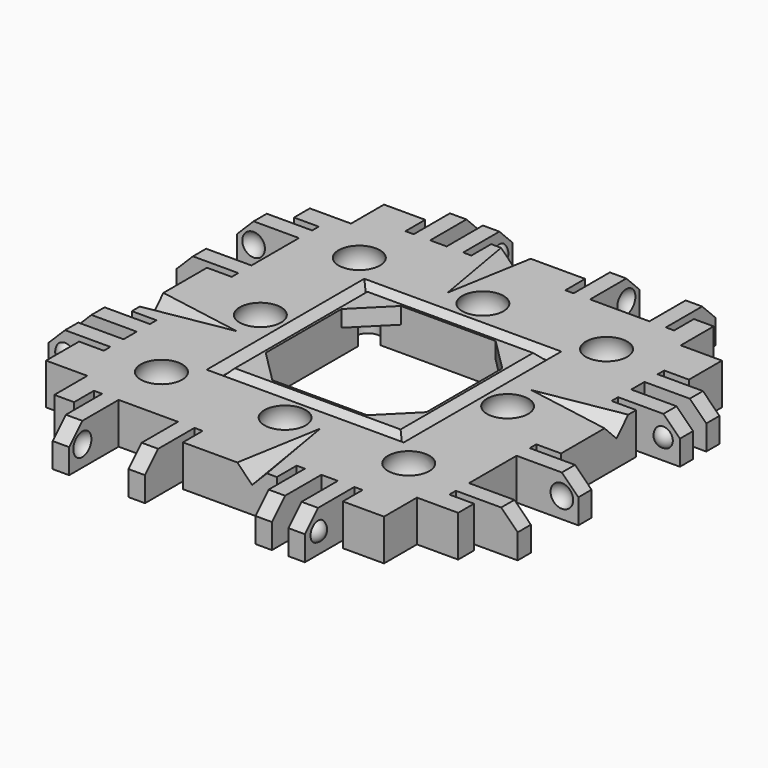
from build123d import *

# Parameters (mm, degrees)
CYLINDER037_R               = 1.5
CYLINDER037_DEPTH           = 4
CYLINDER036_R               = 1.5
CYLINDER036_DEPTH           = 4
CYLINDER035_R               = 1.5
CYLINDER035_DEPTH           = 4
CYLINDER034_R               = 1.5
CYLINDER034_DEPTH           = 4
SPHERE084_PLACEMENT_ANGLE   = 90
SPHERE086_PLACEMENT_ANGLE   = 90
SPHERE088_PLACEMENT_ANGLE   = -90
CYLINDER032_R               = 1.7
CYLINDER032_DEPTH           = 10
CYLINDER033_R               = 1.7
CYLINDER033_DEPTH           = 10
CYLINDER033_PLACEMENT_ANGLE = -90
CYLINDER031_R               = 1.7
CYLINDER031_DEPTH           = 10
CYLINDER031_PLACEMENT_ANGLE = 90
CYLINDER030_R               = 1.7
CYLINDER030_DEPTH           = 10
CYLINDER029_R               = 1.7
CYLINDER029_DEPTH           = 10
CYLINDER029_PLACEMENT_ANGLE = 90
BOX208_W                    = 10
BOX208_H                    = 15
BOX208_DEPTH                = 10
BOX208_ROLL_ANGLE           = 14.001942
BOX208_PITCH_ANGLE          = -44.136029
BOX208_PLACEMENT_ANGLE      = -99.851076
BOX207_W                    = 10
BOX207_H                    = 15
BOX207_DEPTH                = 10
BOX207_ROLL_ANGLE           = 14.001942
BOX207_PITCH_ANGLE          = -44.136029
BOX207_PLACEMENT_ANGLE      = 170.148924
BOX206_W                    = 10
BOX206_H                    = 15
BOX206_DEPTH                = 10
BOX206_ROLL_ANGLE           = 14.001942
BOX206_PITCH_ANGLE          = -44.136029
BOX206_PLACEMENT_ANGLE      = 80.148924
BOX086_W                    = 10
BOX086_H                    = 15
BOX086_DEPTH                = 10
BOX086_ROLL_ANGLE           = 14.001942
BOX086_PITCH_ANGLE          = -44.136029
BOX086_PLACEMENT_ANGLE      = -9.851076
BOX085_W                    = 19.5
BOX085_H                    = 19.5
BOX085_DEPTH                = 15
BOX076_W                    = 19.5
BOX076_H                    = 19.5
BOX076_DEPTH                = 15
CHAMFER008_SIZE             = 4
CYLINDER025_R               = 1.7
CYLINDER025_DEPTH           = 10
CYLINDER026_R               = 1.7
CYLINDER026_DEPTH           = 10
CYLINDER024_R               = 1.7
CYLINDER024_DEPTH           = 10
BOX169_W                    = 13
BOX169_H                    = 40
BOX169_DEPTH                = 10
BOX169_PITCH_ANGLE          = -45
BOX177_W                    = 12
BOX177_H                    = 44
BOX177_DEPTH                = 10
BOX176_W                    = 20
BOX176_H                    = 44
BOX176_DEPTH                = 10
BOX172_W                    = 4
BOX172_H                    = 1
BOX172_DEPTH                = 7
BOX174_W                    = 4
BOX174_H                    = 1
BOX174_DEPTH                = 7
BOX171_W                    = 4
BOX171_H                    = 2
BOX171_DEPTH                = 7
BOX173_W                    = 4
BOX173_H                    = 1
BOX173_DEPTH                = 7
BOX170_W                    = 4
BOX170_H                    = 1
BOX170_DEPTH                = 7
BOX175_W                    = 4
BOX175_H                    = 7.2
BOX175_DEPTH                = 7
BOX165_W                    = 10
BOX165_H                    = 2
BOX165_DEPTH                = 7
BOX166_W                    = 10
BOX166_H                    = 2
BOX166_DEPTH                = 7
BOX167_W                    = 10
BOX167_H                    = 2
BOX167_DEPTH                = 7
BOX168_W                    = 10
BOX168_H                    = 2
BOX168_DEPTH                = 7
BOX164_W                    = 5
BOX164_H                    = 40
BOX164_DEPTH                = 7
CUT069_PLACEMENT_ANGLE      = 90
BOX191_W                    = 13
BOX191_H                    = 40
BOX191_DEPTH                = 10
BOX191_PITCH_ANGLE          = -45
BOX187_W                    = 12
BOX187_H                    = 44
BOX187_DEPTH                = 10
BOX180_W                    = 20
BOX180_H                    = 44
BOX180_DEPTH                = 10
BOX182_W                    = 4
BOX182_H                    = 1
BOX182_DEPTH                = 7
BOX184_W                    = 4
BOX184_H                    = 1
BOX184_DEPTH                = 7
BOX186_W                    = 4
BOX186_H                    = 2
BOX186_DEPTH                = 7
BOX185_W                    = 4
BOX185_H                    = 1
BOX185_DEPTH                = 7
BOX189_W                    = 4
BOX189_H                    = 1
BOX189_DEPTH                = 7
BOX181_W                    = 4
BOX181_H                    = 7.2
BOX181_DEPTH                = 7
BOX190_W                    = 10
BOX190_H                    = 2
BOX190_DEPTH                = 7
BOX179_W                    = 10
BOX179_H                    = 2
BOX179_DEPTH                = 7
BOX183_W                    = 10
BOX183_H                    = 2
BOX183_DEPTH                = 7
BOX188_W                    = 10
BOX188_H                    = 2
BOX188_DEPTH                = 7
BOX178_W                    = 5
BOX178_H                    = 40
BOX178_DEPTH                = 7
CUT074_PLACEMENT_ANGLE      = 180
BOX193_W                    = 13
BOX193_H                    = 40
BOX193_DEPTH                = 10
BOX193_PITCH_ANGLE          = -45
BOX203_W                    = 12
BOX203_H                    = 44
BOX203_DEPTH                = 10
BOX194_W                    = 20
BOX194_H                    = 44
BOX194_DEPTH                = 10
BOX198_W                    = 4
BOX198_H                    = 1
BOX198_DEPTH                = 7
BOX204_W                    = 4
BOX204_H                    = 1
BOX204_DEPTH                = 7
BOX201_W                    = 4
BOX201_H                    = 2
BOX201_DEPTH                = 7
BOX200_W                    = 4
BOX200_H                    = 1
BOX200_DEPTH                = 7
BOX197_W                    = 4
BOX197_H                    = 1
BOX197_DEPTH                = 7
BOX199_W                    = 4
BOX199_H                    = 7.2
BOX199_DEPTH                = 7
BOX192_W                    = 10
BOX192_H                    = 2
BOX192_DEPTH                = 7
BOX195_W                    = 10
BOX195_H                    = 2
BOX195_DEPTH                = 7
BOX202_W                    = 10
BOX202_H                    = 2
BOX202_DEPTH                = 7
BOX205_W                    = 10
BOX205_H                    = 2
BOX205_DEPTH                = 7
BOX196_W                    = 5
BOX196_H                    = 40
BOX196_DEPTH                = 7
CUT079_PLACEMENT_ANGLE      = -90
BOX006_W                    = 13
BOX006_H                    = 40
BOX006_DEPTH                = 10
BOX006_PITCH_ANGLE          = -45
BOX149_W                    = 12
BOX149_H                    = 44
BOX149_DEPTH                = 10
BOX013_W                    = 20
BOX013_H                    = 44
BOX013_DEPTH                = 10
BOX009_W                    = 4
BOX009_H                    = 1
BOX009_DEPTH                = 7
BOX011_W                    = 4
BOX011_H                    = 1
BOX011_DEPTH                = 7
BOX008_W                    = 4
BOX008_H                    = 2
BOX008_DEPTH                = 7
BOX010_W                    = 4
BOX010_H                    = 1
BOX010_DEPTH                = 7
BOX007_W                    = 4
BOX007_H                    = 1
BOX007_DEPTH                = 7
BOX012_W                    = 4
BOX012_H                    = 7.2
BOX012_DEPTH                = 7
BOX002_W                    = 10
BOX002_H                    = 2
BOX002_DEPTH                = 7
BOX003_W                    = 10
BOX003_H                    = 2
BOX003_DEPTH                = 7
BOX004_W                    = 10
BOX004_H                    = 2
BOX004_DEPTH                = 7
BOX005_W                    = 10
BOX005_H                    = 2
BOX005_DEPTH                = 7
BOX001_W                    = 5
BOX001_H                    = 40
BOX001_DEPTH                = 7
BOX084_W                    = 20
BOX084_H                    = 20
BOX084_DEPTH                = 14
BOX083_W                    = 24
BOX083_H                    = 24
BOX083_DEPTH                = 10
CHAMFER007_SIZE             = 0.95
BOX_W                       = 40
BOX_H                       = 40
BOX_DEPTH                   = 5


with BuildPart() as cylinder037:
    # Cylinder037 → Cylinder037 (new body)
    with BuildSketch(Plane(origin=(9.75, -9.75, -3), x_dir=(1, 0, 0), z_dir=(0, 0, 1))):
        Circle(CYLINDER037_R)
    extrude(amount=CYLINDER037_DEPTH)


with BuildPart() as cylinder036:
    # Cylinder036 → Cylinder036 (new body)
    with BuildSketch(Plane(origin=(-9.75, 9.75, -3), x_dir=(1, 0, 0), z_dir=(0, 0, 1))):
        Circle(CYLINDER036_R)
    extrude(amount=CYLINDER036_DEPTH)


with BuildPart() as cylinder035:
    # Cylinder035 → Cylinder035 (new body)
    with BuildSketch(Plane(origin=(9.75, 9.75, -3), x_dir=(1, 0, 0), z_dir=(0, 0, 1))):
        Circle(CYLINDER035_R)
    extrude(amount=CYLINDER035_DEPTH)


with BuildPart() as fusion103008:
    # Cylinder034 → Cylinder034 (new body)
    with BuildSketch(Plane(origin=(-9.75, -9.75, -3), x_dir=(1, 0, 0), z_dir=(0, 0, 1))):
        Circle(CYLINDER034_R)
    extrude(amount=CYLINDER034_DEPTH)

    # Fusion103008: union Cylinder037, Cylinder036, Cylinder035
    add(cylinder037.part)
    add(cylinder036.part)
    add(cylinder035.part)


with BuildPart() as sphere087:
    # Sphere087 → Sphere087 (revolve)
    with BuildSketch(Plane(origin=(-15, 0, 1.7), x_dir=(-1, 0, 0), z_dir=(0, 1, 0))):
        with BuildLine():
            ThreePointArc((0, -2.825), (2.825, 0), (0, 2.825))
            Line((0, 2.825), (0, -2.825))
        make_face()
    revolve(axis=Axis((-15, 0, 1.7), (0, 0, 1)))


with BuildPart() as mag_hole001:
    # Sphere084 → Sphere084 (revolve)
    with BuildSketch(Plane.XZ):
        with BuildLine():
            ThreePointArc((0, -2.83), (2.83, 0), (0, 2.83))
            Line((0, 2.83), (0, -2.83))
        make_face()
    revolve(axis=Axis((0, 0, 0), (0, 0, 1)))


with BuildPart() as mag_hole001_1:
    # Sphere084 placement: moved
    add(mag_hole001.part.moved(Location((15, -15, 1.7))).rotate(Axis((15, -15, 1.7), (0, 0, 1)), SPHERE084_PLACEMENT_ANGLE))


with BuildPart() as sphere086:
    # Sphere086 → Sphere086 (revolve)
    with BuildSketch(Plane.XZ):
        with BuildLine():
            ThreePointArc((0, -2.825), (2.825, 0), (0, 2.825))
            Line((0, 2.825), (0, -2.825))
        make_face()
    revolve(axis=Axis((0, 0, 0), (0, 0, 1)))


with BuildPart() as sphere086_1:
    # Sphere086 placement: moved
    add(sphere086.part.moved(Location((0, 15, 1.7))).rotate(Axis((0, 15, 1.7), (0, 0, 1)), SPHERE086_PLACEMENT_ANGLE))


with BuildPart() as sphere088:
    # Sphere088 → Sphere088 (revolve)
    with BuildSketch(Plane.XZ):
        with BuildLine():
            ThreePointArc((0, -2.825), (2.825, 0), (0, 2.825))
            Line((0, 2.825), (0, -2.825))
        make_face()
    revolve(axis=Axis((0, 0, 0), (0, 0, 1)))


with BuildPart() as sphere088_1:
    # Sphere088 placement: moved
    add(sphere088.part.moved(Location((0, -15, 1.7))).rotate(Axis((0, -15, 1.7), (0, 0, 1)), SPHERE088_PLACEMENT_ANGLE))


with BuildPart() as cylinder032:
    # Cylinder032 → Cylinder032 (new body)
    with BuildSketch(Plane(origin=(-15, 0, -5), x_dir=(-1, 0, 0), z_dir=(0, 0, 1))):
        Circle(CYLINDER032_R)
    extrude(amount=CYLINDER032_DEPTH)


with BuildPart() as cylinder033:
    # Cylinder033 → Cylinder033 (new body)
    with BuildSketch(Plane.XY):
        Circle(CYLINDER033_R)
    extrude(amount=CYLINDER033_DEPTH)


with BuildPart() as cylinder033_1:
    # Cylinder033 placement: moved
    add(cylinder033.part.moved(Location((0, -15, -5))).rotate(Axis((0, -15, -5), (0, 0, 1)), CYLINDER033_PLACEMENT_ANGLE))


with BuildPart() as mag_hole002:
    # Sphere085 → Sphere085 (revolve)
    with BuildSketch(Plane(origin=(15, 15, 1.7), x_dir=(-1, 0, 0), z_dir=(0, 1, 0))):
        with BuildLine():
            ThreePointArc((0, -2.83), (2.83, 0), (0, 2.83))
            Line((0, 2.83), (0, -2.83))
        make_face()
    revolve(axis=Axis((15, 15, 1.7), (0, 0, 1)))


with BuildPart() as cylinder031:
    # Cylinder031 → Cylinder031 (new body)
    with BuildSketch(Plane.XY):
        Circle(CYLINDER031_R)
    extrude(amount=CYLINDER031_DEPTH)


with BuildPart() as cylinder031_1:
    # Cylinder031 placement: moved
    add(cylinder031.part.moved(Location((0, 15, -5))).rotate(Axis((0, 15, -5), (0, 0, 1)), CYLINDER031_PLACEMENT_ANGLE))


with BuildPart() as cylinder030:
    # Cylinder030 → Cylinder030 (new body)
    with BuildSketch(Plane(origin=(15, 15, -5), x_dir=(-1, 0, 0), z_dir=(0, 0, 1))):
        Circle(CYLINDER030_R)
    extrude(amount=CYLINDER030_DEPTH)


with BuildPart() as fusion103007:
    # Cylinder029 → Cylinder029 (new body)
    with BuildSketch(Plane.XY):
        Circle(CYLINDER029_R)
    extrude(amount=CYLINDER029_DEPTH)


with BuildPart() as fusion103007_1:
    # Cylinder029 placement: moved
    add(fusion103007.part.moved(Location((15, -15, -5))).rotate(Axis((15, -15, -5), (0, 0, 1)), CYLINDER029_PLACEMENT_ANGLE))

    # Fusion103007: union Sphere087, Mag Hole001, Sphere086, Sphere088, Cylinder032, Cylinder033, Mag Hole002, Cylinder031, Cylinder030
    add(sphere087.part)
    add(mag_hole001_1.part)
    add(sphere086_1.part)
    add(sphere088_1.part)
    add(cylinder032.part)
    add(cylinder033_1.part)
    add(mag_hole002.part)
    add(cylinder031_1.part)
    add(cylinder030.part)


with BuildPart() as cube179:
    # Box208 → Box208 (new body)
    with BuildSketch(Plane.XY):
        with Locations((5, 7.5)):
            Rectangle(BOX208_W, BOX208_H)
    extrude(amount=BOX208_DEPTH)


with BuildPart() as cube179_1:
    # Box208 roll: moved
    add(cube179.part.rotate(Axis((0, 0, 0), (1, 0, 0)), BOX208_ROLL_ANGLE))


with BuildPart() as cube179_2:
    # Box208 pitch: moved
    add(cube179_1.part.rotate(Axis((0, 0, 0), (0, 1, 0)), BOX208_PITCH_ANGLE))


with BuildPart() as cube179_3:
    # Box208 placement: moved
    add(cube179_2.part.moved(Location((-26, -4, 1))).rotate(Axis((-26, -4, 1), (0, 0, 1)), BOX208_PLACEMENT_ANGLE))


with BuildPart() as cube178:
    # Box207 → Box207 (new body)
    with BuildSketch(Plane.XY):
        with Locations((5, 7.5)):
            Rectangle(BOX207_W, BOX207_H)
    extrude(amount=BOX207_DEPTH)


with BuildPart() as cube178_1:
    # Box207 roll: moved
    add(cube178.part.rotate(Axis((0, 0, 0), (1, 0, 0)), BOX207_ROLL_ANGLE))


with BuildPart() as cube178_2:
    # Box207 pitch: moved
    add(cube178_1.part.rotate(Axis((0, 0, 0), (0, 1, 0)), BOX207_PITCH_ANGLE))


with BuildPart() as cube178_3:
    # Box207 placement: moved
    add(cube178_2.part.moved(Location((-4, 26, 1))).rotate(Axis((-4, 26, 1), (0, 0, 1)), BOX207_PLACEMENT_ANGLE))


with BuildPart() as cube177:
    # Box206 → Box206 (new body)
    with BuildSketch(Plane.XY):
        with Locations((5, 7.5)):
            Rectangle(BOX206_W, BOX206_H)
    extrude(amount=BOX206_DEPTH)


with BuildPart() as cube177_1:
    # Box206 roll: moved
    add(cube177.part.rotate(Axis((0, 0, 0), (1, 0, 0)), BOX206_ROLL_ANGLE))


with BuildPart() as cube177_2:
    # Box206 pitch: moved
    add(cube177_1.part.rotate(Axis((0, 0, 0), (0, 1, 0)), BOX206_PITCH_ANGLE))


with BuildPart() as cube177_3:
    # Box206 placement: moved
    add(cube177_2.part.moved(Location((26, 4, 1))).rotate(Axis((26, 4, 1), (0, 0, 1)), BOX206_PLACEMENT_ANGLE))


with BuildPart() as glue_dents:
    # Box086 → Box086 (new body)
    with BuildSketch(Plane.XY):
        with Locations((5, 7.5)):
            Rectangle(BOX086_W, BOX086_H)
    extrude(amount=BOX086_DEPTH)


with BuildPart() as glue_dents_1:
    # Box086 roll: moved
    add(glue_dents.part.rotate(Axis((0, 0, 0), (1, 0, 0)), BOX086_ROLL_ANGLE))


with BuildPart() as glue_dents_2:
    # Box086 pitch: moved
    add(glue_dents_1.part.rotate(Axis((0, 0, 0), (0, 1, 0)), BOX086_PITCH_ANGLE))


with BuildPart() as glue_dents_3:
    # Box086 placement: moved
    add(glue_dents_2.part.moved(Location((4, -26, 1))).rotate(Axis((4, -26, 1), (0, 0, 1)), BOX086_PLACEMENT_ANGLE))

    # Fusion078: union Cube179, Cube178, Cube177
    add(cube179_3.part)
    add(cube178_3.part)
    add(cube177_3.part)


with BuildPart() as cube069:
    # Box085 → Box085 (new body)
    with BuildSketch(Plane(origin=(-9.75, -9.75, -14), x_dir=(1, 0, 0), z_dir=(0, 0, 1))):
        with Locations((9.75, 9.75)):
            Rectangle(BOX085_W, BOX085_H)
    extrude(amount=BOX085_DEPTH)


with BuildPart() as obj1:
    # Box076 → Box076 (new body)
    with BuildSketch(Plane(origin=(-9.75, -9.75, -3), x_dir=(1, 0, 0), z_dir=(0, 0, 1))):
        with Locations((9.75, 9.75)):
            Rectangle(BOX076_W, BOX076_H)
    extrude(amount=BOX076_DEPTH)

    # Chamfer008
    chamfer008_edges = [obj1.edges().sort_by_distance(p)[0] for p in [
        (-9.75, -9.75, 4.5),
        (-9.75, 9.75, 4.5),
        (9.75, -9.75, 4.5),
        (9.75, 9.75, 4.5),
    ]]
    chamfer(chamfer008_edges, length=CHAMFER008_SIZE)


with BuildPart() as cylinder025:
    # Cylinder025 → Cylinder025 (new body)
    with BuildSketch(Plane(origin=(15, 0, -5), x_dir=(1, 0, 0), z_dir=(0, 0, 1))):
        Circle(CYLINDER025_R)
    extrude(amount=CYLINDER025_DEPTH)


with BuildPart() as cylinder026:
    # Cylinder026 → Cylinder026 (new body)
    with BuildSketch(Plane(origin=(-15, 15, -5), x_dir=(1, 0, 0), z_dir=(0, 0, 1))):
        Circle(CYLINDER026_R)
    extrude(amount=CYLINDER026_DEPTH)


with BuildPart() as screw_holes_to_remove_ball_mags:
    # Cylinder024 → Cylinder024 (new body)
    with BuildSketch(Plane(origin=(-15, -15, -5), x_dir=(1, 0, 0), z_dir=(0, 0, 1))):
        Circle(CYLINDER024_R)
    extrude(amount=CYLINDER024_DEPTH)

    # Fusion052: union Cylinder025, Cylinder026
    add(cylinder025.part)
    add(cylinder026.part)


with BuildPart() as chamfer_cube002:
    # Box169 → Box169 (new body)
    with BuildSketch(Plane.XY):
        with Locations((6.5, 20)):
            Rectangle(BOX169_W, BOX169_H)
    extrude(amount=BOX169_DEPTH)


with BuildPart() as chamfer_cube002_1:
    # Box169 pitch: moved
    add(chamfer_cube002.part.rotate(Axis((0, 0, 0), (0, 1, 0)), BOX169_PITCH_ANGLE))


with BuildPart() as chamfer_cube002_2:
    # Box169 placement: moved
    add(chamfer_cube002_1.part.moved(Location((-11.69, 0, -1.19))))


with BuildPart() as re_level_edge_clip_block005:
    # Box177 → Box177 (new body)
    with BuildSketch(Plane(origin=(-21.5, -2, -7), x_dir=(1, 0, 0), z_dir=(0, 0, 1))):
        with Locations((6, 22)):
            Rectangle(BOX177_W, BOX177_H)
    extrude(amount=BOX177_DEPTH)


with BuildPart() as re_level_edge_clip_block004:
    # Box176 → Box176 (new body)
    with BuildSketch(Plane(origin=(-19, -2, 3), x_dir=(1, 0, 0), z_dir=(0, 0, 1))):
        with Locations((10, 22)):
            Rectangle(BOX176_W, BOX176_H)
    extrude(amount=BOX176_DEPTH)


with BuildPart() as cube151:
    # Box172 → Box172 (new body)
    with BuildSketch(Plane(origin=(-6, 12, -2), x_dir=(1, 0, 0), z_dir=(0, 0, 1))):
        with Locations((2, 0.5)):
            Rectangle(BOX172_W, BOX172_H)
    extrude(amount=BOX172_DEPTH)


with BuildPart() as cube153:
    # Box174 → Box174 (new body)
    with BuildSketch(Plane(origin=(-6, 36.6, -2), x_dir=(1, 0, 0), z_dir=(0, 0, 1))):
        with Locations((2, 0.5)):
            Rectangle(BOX174_W, BOX174_H)
    extrude(amount=BOX174_DEPTH)


with BuildPart() as cube150:
    # Box171 → Box171 (new body)
    with BuildSketch(Plane(origin=(-6, 8, -2), x_dir=(1, 0, 0), z_dir=(0, 0, 1))):
        with Locations((2, 1)):
            Rectangle(BOX171_W, BOX171_H)
    extrude(amount=BOX171_DEPTH)


with BuildPart() as cube152:
    # Box173 → Box173 (new body)
    with BuildSketch(Plane(origin=(-6, 24.4, -2), x_dir=(1, 0, 0), z_dir=(0, 0, 1))):
        with Locations((2, 0.5)):
            Rectangle(BOX173_W, BOX173_H)
    extrude(amount=BOX173_DEPTH)


with BuildPart() as cube149:
    # Box170 → Box170 (new body)
    with BuildSketch(Plane(origin=(-6, 5, -2), x_dir=(1, 0, 0), z_dir=(0, 0, 1))):
        with Locations((2, 0.5)):
            Rectangle(BOX170_W, BOX170_H)
    extrude(amount=BOX170_DEPTH)


with BuildPart() as extra_holes_for_clips002:
    # Box175 → Box175 (new body)
    with BuildSketch(Plane(origin=(-6, 27.4, -2), x_dir=(1, 0, 0), z_dir=(0, 0, 1))):
        with Locations((2, 3.6)):
            Rectangle(BOX175_W, BOX175_H)
    extrude(amount=BOX175_DEPTH)

    # Fusion061: union Cube151, Cube153, Cube150, Cube152, Cube149
    add(cube151.part)
    add(cube153.part)
    add(cube150.part)
    add(cube152.part)
    add(cube149.part)


with BuildPart() as sphere058:
    # Sphere058 → Sphere058 (revolve)
    with BuildSketch(Plane(origin=(-7.5, 34, 0.5), x_dir=(1, 0, 0), z_dir=(0, -1, 0))):
        with BuildLine():
            ThreePointArc((0, -1.5), (1.5, 0), (0, 1.5))
            Line((0, 1.5), (0, -1.5))
        make_face()
    revolve(axis=Axis((-7.5, 34, 0.5), (0, 0, 1)))


with BuildPart() as holes002:
    # Sphere057 → Sphere057 (revolve)
    with BuildSketch(Plane(origin=(-7.5, 28, 0.5), x_dir=(1, 0, 0), z_dir=(0, -1, 0))):
        with BuildLine():
            ThreePointArc((0, -1.5), (1.5, 0), (0, 1.5))
            Line((0, 1.5), (0, -1.5))
        make_face()
    revolve(axis=Axis((-7.5, 28, 0.5), (0, 0, 1)))

    # Fusion063: union Sphere058
    add(sphere058.part)


with BuildPart() as cube145:
    # Box165 → Box165 (new body)
    with BuildSketch(Plane(origin=(-15, 6, -2), x_dir=(1, 0, 0), z_dir=(0, 0, 1))):
        with Locations((5, 1)):
            Rectangle(BOX165_W, BOX165_H)
    extrude(amount=BOX165_DEPTH)


with BuildPart() as cube146:
    # Box166 → Box166 (new body)
    with BuildSketch(Plane(origin=(-15, 10, -2), x_dir=(1, 0, 0), z_dir=(0, 0, 1))):
        with Locations((5, 1)):
            Rectangle(BOX166_W, BOX166_H)
    extrude(amount=BOX166_DEPTH)


with BuildPart() as cube147:
    # Box167 → Box167 (new body)
    with BuildSketch(Plane(origin=(-15, 25.4, -2), x_dir=(1, 0, 0), z_dir=(0, 0, 1))):
        with Locations((5, 1)):
            Rectangle(BOX167_W, BOX167_H)
    extrude(amount=BOX167_DEPTH)


with BuildPart() as cube148:
    # Box168 → Box168 (new body)
    with BuildSketch(Plane(origin=(-15, 34.6, -2), x_dir=(1, 0, 0), z_dir=(0, 0, 1))):
        with Locations((5, 1)):
            Rectangle(BOX168_W, BOX168_H)
    extrude(amount=BOX168_DEPTH)


with BuildPart() as fusion064:
    # Box164 → Box164 (new body)
    with BuildSketch(Plane(origin=(-5, 0, -2), x_dir=(1, 0, 0), z_dir=(0, 0, 1))):
        with Locations((2.5, 20)):
            Rectangle(BOX164_W, BOX164_H)
    extrude(amount=BOX164_DEPTH)

    # Fusion064: union Cube145, Cube146, Cube147, Cube148
    add(cube145.part)
    add(cube146.part)
    add(cube147.part)
    add(cube148.part)


with BuildPart() as sphere056:
    # Sphere056 → Sphere056 (revolve)
    with BuildSketch(Plane(origin=(-7.5, 11.5, 0.5), x_dir=(1, 0, 0), z_dir=(0, -1, 0))):
        with BuildLine():
            ThreePointArc((0, -1.25), (1.25, 0), (0, 1.25))
            Line((0, 1.25), (0, -1.25))
        make_face()
    revolve(axis=Axis((-7.5, 11.5, 0.5), (0, 0, 1)))


with BuildPart() as edge_clips001:
    # Sphere055 → Sphere055 (revolve)
    with BuildSketch(Plane(origin=(-7.5, 6.5, 0.5), x_dir=(1, 0, 0), z_dir=(0, -1, 0))):
        with BuildLine():
            ThreePointArc((0, -1.25), (1.25, 0), (0, 1.25))
            Line((0, 1.25), (0, -1.25))
        make_face()
    revolve(axis=Axis((-7.5, 6.5, 0.5), (0, 0, 1)))

    # Fusion062: union Sphere056
    add(sphere056.part)

    # Fusion065: union Fusion064
    add(fusion064.part)

    # Cut065: cut Holes002
    add(holes002.part, mode=Mode.SUBTRACT)

    # Cut066: cut Extra Holes for Clips002
    add(extra_holes_for_clips002.part, mode=Mode.SUBTRACT)

    # Cut067: cut Re-level Edge Clip Block004
    add(re_level_edge_clip_block004.part, mode=Mode.SUBTRACT)

    # Cut068: cut Re-level Edge Clip Block005
    add(re_level_edge_clip_block005.part, mode=Mode.SUBTRACT)

    # Cut069: cut Chamfer Cube002
    add(chamfer_cube002_2.part, mode=Mode.SUBTRACT)


with BuildPart() as edge_clips001_1:
    # Cut069 placement: moved
    add(edge_clips001.part.moved(Location((20, -20, 0))).rotate(Axis((20, -20, 0), (0, 0, 1)), CUT069_PLACEMENT_ANGLE))


with BuildPart() as chamfer_cube003:
    # Box191 → Box191 (new body)
    with BuildSketch(Plane.XY):
        with Locations((6.5, 20)):
            Rectangle(BOX191_W, BOX191_H)
    extrude(amount=BOX191_DEPTH)


with BuildPart() as chamfer_cube003_1:
    # Box191 pitch: moved
    add(chamfer_cube003.part.rotate(Axis((0, 0, 0), (0, 1, 0)), BOX191_PITCH_ANGLE))


with BuildPart() as chamfer_cube003_2:
    # Box191 placement: moved
    add(chamfer_cube003_1.part.moved(Location((-11.69, 0, -1.19))))


with BuildPart() as re_level_edge_clip_block007:
    # Box187 → Box187 (new body)
    with BuildSketch(Plane(origin=(-21.5, -2, -7), x_dir=(1, 0, 0), z_dir=(0, 0, 1))):
        with Locations((6, 22)):
            Rectangle(BOX187_W, BOX187_H)
    extrude(amount=BOX187_DEPTH)


with BuildPart() as re_level_edge_clip_block006:
    # Box180 → Box180 (new body)
    with BuildSketch(Plane(origin=(-19, -2, 3), x_dir=(1, 0, 0), z_dir=(0, 0, 1))):
        with Locations((10, 22)):
            Rectangle(BOX180_W, BOX180_H)
    extrude(amount=BOX180_DEPTH)


with BuildPart() as cube158:
    # Box182 → Box182 (new body)
    with BuildSketch(Plane(origin=(-6, 12, -2), x_dir=(1, 0, 0), z_dir=(0, 0, 1))):
        with Locations((2, 0.5)):
            Rectangle(BOX182_W, BOX182_H)
    extrude(amount=BOX182_DEPTH)


with BuildPart() as cube160:
    # Box184 → Box184 (new body)
    with BuildSketch(Plane(origin=(-6, 36.6, -2), x_dir=(1, 0, 0), z_dir=(0, 0, 1))):
        with Locations((2, 0.5)):
            Rectangle(BOX184_W, BOX184_H)
    extrude(amount=BOX184_DEPTH)


with BuildPart() as cube162:
    # Box186 → Box186 (new body)
    with BuildSketch(Plane(origin=(-6, 8, -2), x_dir=(1, 0, 0), z_dir=(0, 0, 1))):
        with Locations((2, 1)):
            Rectangle(BOX186_W, BOX186_H)
    extrude(amount=BOX186_DEPTH)


with BuildPart() as cube161:
    # Box185 → Box185 (new body)
    with BuildSketch(Plane(origin=(-6, 24.4, -2), x_dir=(1, 0, 0), z_dir=(0, 0, 1))):
        with Locations((2, 0.5)):
            Rectangle(BOX185_W, BOX185_H)
    extrude(amount=BOX185_DEPTH)


with BuildPart() as cube164:
    # Box189 → Box189 (new body)
    with BuildSketch(Plane(origin=(-6, 5, -2), x_dir=(1, 0, 0), z_dir=(0, 0, 1))):
        with Locations((2, 0.5)):
            Rectangle(BOX189_W, BOX189_H)
    extrude(amount=BOX189_DEPTH)


with BuildPart() as extra_holes_for_clips003:
    # Box181 → Box181 (new body)
    with BuildSketch(Plane(origin=(-6, 27.4, -2), x_dir=(1, 0, 0), z_dir=(0, 0, 1))):
        with Locations((2, 3.6)):
            Rectangle(BOX181_W, BOX181_H)
    extrude(amount=BOX181_DEPTH)

    # Fusion067: union Cube158, Cube160, Cube162, Cube161, Cube164
    add(cube158.part)
    add(cube160.part)
    add(cube162.part)
    add(cube161.part)
    add(cube164.part)


with BuildPart() as sphere060:
    # Sphere060 → Sphere060 (revolve)
    with BuildSketch(Plane(origin=(-7.5, 34, 0.5), x_dir=(1, 0, 0), z_dir=(0, -1, 0))):
        with BuildLine():
            ThreePointArc((0, -1.5), (1.5, 0), (0, 1.5))
            Line((0, 1.5), (0, -1.5))
        make_face()
    revolve(axis=Axis((-7.5, 34, 0.5), (0, 0, 1)))


with BuildPart() as holes003:
    # Sphere062 → Sphere062 (revolve)
    with BuildSketch(Plane(origin=(-7.5, 28, 0.5), x_dir=(1, 0, 0), z_dir=(0, -1, 0))):
        with BuildLine():
            ThreePointArc((0, -1.5), (1.5, 0), (0, 1.5))
            Line((0, 1.5), (0, -1.5))
        make_face()
    revolve(axis=Axis((-7.5, 28, 0.5), (0, 0, 1)))

    # Fusion066: union Sphere060
    add(sphere060.part)


with BuildPart() as cube165:
    # Box190 → Box190 (new body)
    with BuildSketch(Plane(origin=(-15, 6, -2), x_dir=(1, 0, 0), z_dir=(0, 0, 1))):
        with Locations((5, 1)):
            Rectangle(BOX190_W, BOX190_H)
    extrude(amount=BOX190_DEPTH)


with BuildPart() as cube156:
    # Box179 → Box179 (new body)
    with BuildSketch(Plane(origin=(-15, 10, -2), x_dir=(1, 0, 0), z_dir=(0, 0, 1))):
        with Locations((5, 1)):
            Rectangle(BOX179_W, BOX179_H)
    extrude(amount=BOX179_DEPTH)


with BuildPart() as cube159:
    # Box183 → Box183 (new body)
    with BuildSketch(Plane(origin=(-15, 25.4, -2), x_dir=(1, 0, 0), z_dir=(0, 0, 1))):
        with Locations((5, 1)):
            Rectangle(BOX183_W, BOX183_H)
    extrude(amount=BOX183_DEPTH)


with BuildPart() as cube163:
    # Box188 → Box188 (new body)
    with BuildSketch(Plane(origin=(-15, 34.6, -2), x_dir=(1, 0, 0), z_dir=(0, 0, 1))):
        with Locations((5, 1)):
            Rectangle(BOX188_W, BOX188_H)
    extrude(amount=BOX188_DEPTH)


with BuildPart() as fusion069:
    # Box178 → Box178 (new body)
    with BuildSketch(Plane(origin=(-5, 0, -2), x_dir=(1, 0, 0), z_dir=(0, 0, 1))):
        with Locations((2.5, 20)):
            Rectangle(BOX178_W, BOX178_H)
    extrude(amount=BOX178_DEPTH)

    # Fusion069: union Cube165, Cube156, Cube159, Cube163
    add(cube165.part)
    add(cube156.part)
    add(cube159.part)
    add(cube163.part)


with BuildPart() as sphere061:
    # Sphere061 → Sphere061 (revolve)
    with BuildSketch(Plane(origin=(-7.5, 11.5, 0.5), x_dir=(1, 0, 0), z_dir=(0, -1, 0))):
        with BuildLine():
            ThreePointArc((0, -1.25), (1.25, 0), (0, 1.25))
            Line((0, 1.25), (0, -1.25))
        make_face()
    revolve(axis=Axis((-7.5, 11.5, 0.5), (0, 0, 1)))


with BuildPart() as edge_clips002:
    # Sphere059 → Sphere059 (revolve)
    with BuildSketch(Plane(origin=(-7.5, 6.5, 0.5), x_dir=(1, 0, 0), z_dir=(0, -1, 0))):
        with BuildLine():
            ThreePointArc((0, -1.25), (1.25, 0), (0, 1.25))
            Line((0, 1.25), (0, -1.25))
        make_face()
    revolve(axis=Axis((-7.5, 6.5, 0.5), (0, 0, 1)))

    # Fusion070: union Sphere061
    add(sphere061.part)

    # Fusion068: union Fusion069
    add(fusion069.part)

    # Cut073: cut Holes003
    add(holes003.part, mode=Mode.SUBTRACT)

    # Cut070: cut Extra Holes for Clips003
    add(extra_holes_for_clips003.part, mode=Mode.SUBTRACT)

    # Cut071: cut Re-level Edge Clip Block006
    add(re_level_edge_clip_block006.part, mode=Mode.SUBTRACT)

    # Cut072: cut Re-level Edge Clip Block007
    add(re_level_edge_clip_block007.part, mode=Mode.SUBTRACT)

    # Cut074: cut Chamfer Cube003
    add(chamfer_cube003_2.part, mode=Mode.SUBTRACT)


with BuildPart() as edge_clips002_1:
    # Cut074 placement: moved
    add(edge_clips002.part.moved(Location((20, 20, 0))).rotate(Axis((20, 20, 0), (0, 0, 1)), CUT074_PLACEMENT_ANGLE))


with BuildPart() as chamfer_cube004:
    # Box193 → Box193 (new body)
    with BuildSketch(Plane.XY):
        with Locations((6.5, 20)):
            Rectangle(BOX193_W, BOX193_H)
    extrude(amount=BOX193_DEPTH)


with BuildPart() as chamfer_cube004_1:
    # Box193 pitch: moved
    add(chamfer_cube004.part.rotate(Axis((0, 0, 0), (0, 1, 0)), BOX193_PITCH_ANGLE))


with BuildPart() as chamfer_cube004_2:
    # Box193 placement: moved
    add(chamfer_cube004_1.part.moved(Location((-11.69, 0, -1.19))))


with BuildPart() as re_level_edge_clip_block009:
    # Box203 → Box203 (new body)
    with BuildSketch(Plane(origin=(-21.5, -2, -7), x_dir=(1, 0, 0), z_dir=(0, 0, 1))):
        with Locations((6, 22)):
            Rectangle(BOX203_W, BOX203_H)
    extrude(amount=BOX203_DEPTH)


with BuildPart() as re_level_edge_clip_block008:
    # Box194 → Box194 (new body)
    with BuildSketch(Plane(origin=(-19, -2, 3), x_dir=(1, 0, 0), z_dir=(0, 0, 1))):
        with Locations((10, 22)):
            Rectangle(BOX194_W, BOX194_H)
    extrude(amount=BOX194_DEPTH)


with BuildPart() as cube170:
    # Box198 → Box198 (new body)
    with BuildSketch(Plane(origin=(-6, 12, -2), x_dir=(1, 0, 0), z_dir=(0, 0, 1))):
        with Locations((2, 0.5)):
            Rectangle(BOX198_W, BOX198_H)
    extrude(amount=BOX198_DEPTH)


with BuildPart() as cube175:
    # Box204 → Box204 (new body)
    with BuildSketch(Plane(origin=(-6, 36.6, -2), x_dir=(1, 0, 0), z_dir=(0, 0, 1))):
        with Locations((2, 0.5)):
            Rectangle(BOX204_W, BOX204_H)
    extrude(amount=BOX204_DEPTH)


with BuildPart() as cube173:
    # Box201 → Box201 (new body)
    with BuildSketch(Plane(origin=(-6, 8, -2), x_dir=(1, 0, 0), z_dir=(0, 0, 1))):
        with Locations((2, 1)):
            Rectangle(BOX201_W, BOX201_H)
    extrude(amount=BOX201_DEPTH)


with BuildPart() as cube172:
    # Box200 → Box200 (new body)
    with BuildSketch(Plane(origin=(-6, 24.4, -2), x_dir=(1, 0, 0), z_dir=(0, 0, 1))):
        with Locations((2, 0.5)):
            Rectangle(BOX200_W, BOX200_H)
    extrude(amount=BOX200_DEPTH)


with BuildPart() as cube169:
    # Box197 → Box197 (new body)
    with BuildSketch(Plane(origin=(-6, 5, -2), x_dir=(1, 0, 0), z_dir=(0, 0, 1))):
        with Locations((2, 0.5)):
            Rectangle(BOX197_W, BOX197_H)
    extrude(amount=BOX197_DEPTH)


with BuildPart() as extra_holes_for_clips004:
    # Box199 → Box199 (new body)
    with BuildSketch(Plane(origin=(-6, 27.4, -2), x_dir=(1, 0, 0), z_dir=(0, 0, 1))):
        with Locations((2, 3.6)):
            Rectangle(BOX199_W, BOX199_H)
    extrude(amount=BOX199_DEPTH)

    # Fusion074: union Cube170, Cube175, Cube173, Cube172, Cube169
    add(cube170.part)
    add(cube175.part)
    add(cube173.part)
    add(cube172.part)
    add(cube169.part)


with BuildPart() as sphere066:
    # Sphere066 → Sphere066 (revolve)
    with BuildSketch(Plane(origin=(-7.5, 34, 0.5), x_dir=(1, 0, 0), z_dir=(0, -1, 0))):
        with BuildLine():
            ThreePointArc((0, -1.5), (1.5, 0), (0, 1.5))
            Line((0, 1.5), (0, -1.5))
        make_face()
    revolve(axis=Axis((-7.5, 34, 0.5), (0, 0, 1)))


with BuildPart() as holes004:
    # Sphere063 → Sphere063 (revolve)
    with BuildSketch(Plane(origin=(-7.5, 28, 0.5), x_dir=(1, 0, 0), z_dir=(0, -1, 0))):
        with BuildLine():
            ThreePointArc((0, -1.5), (1.5, 0), (0, 1.5))
            Line((0, 1.5), (0, -1.5))
        make_face()
    revolve(axis=Axis((-7.5, 28, 0.5), (0, 0, 1)))

    # Fusion071: union Sphere066
    add(sphere066.part)


with BuildPart() as cube166:
    # Box192 → Box192 (new body)
    with BuildSketch(Plane(origin=(-15, 6, -2), x_dir=(1, 0, 0), z_dir=(0, 0, 1))):
        with Locations((5, 1)):
            Rectangle(BOX192_W, BOX192_H)
    extrude(amount=BOX192_DEPTH)


with BuildPart() as cube167:
    # Box195 → Box195 (new body)
    with BuildSketch(Plane(origin=(-15, 10, -2), x_dir=(1, 0, 0), z_dir=(0, 0, 1))):
        with Locations((5, 1)):
            Rectangle(BOX195_W, BOX195_H)
    extrude(amount=BOX195_DEPTH)


with BuildPart() as cube174:
    # Box202 → Box202 (new body)
    with BuildSketch(Plane(origin=(-15, 25.4, -2), x_dir=(1, 0, 0), z_dir=(0, 0, 1))):
        with Locations((5, 1)):
            Rectangle(BOX202_W, BOX202_H)
    extrude(amount=BOX202_DEPTH)


with BuildPart() as cube176:
    # Box205 → Box205 (new body)
    with BuildSketch(Plane(origin=(-15, 34.6, -2), x_dir=(1, 0, 0), z_dir=(0, 0, 1))):
        with Locations((5, 1)):
            Rectangle(BOX205_W, BOX205_H)
    extrude(amount=BOX205_DEPTH)


with BuildPart() as fusion072:
    # Box196 → Box196 (new body)
    with BuildSketch(Plane(origin=(-5, 0, -2), x_dir=(1, 0, 0), z_dir=(0, 0, 1))):
        with Locations((2.5, 20)):
            Rectangle(BOX196_W, BOX196_H)
    extrude(amount=BOX196_DEPTH)

    # Fusion072: union Cube166, Cube167, Cube174, Cube176
    add(cube166.part)
    add(cube167.part)
    add(cube174.part)
    add(cube176.part)


with BuildPart() as sphere064:
    # Sphere064 → Sphere064 (revolve)
    with BuildSketch(Plane(origin=(-7.5, 11.5, 0.5), x_dir=(1, 0, 0), z_dir=(0, -1, 0))):
        with BuildLine():
            ThreePointArc((0, -1.25), (1.25, 0), (0, 1.25))
            Line((0, 1.25), (0, -1.25))
        make_face()
    revolve(axis=Axis((-7.5, 11.5, 0.5), (0, 0, 1)))


with BuildPart() as edge_clips003:
    # Sphere065 → Sphere065 (revolve)
    with BuildSketch(Plane(origin=(-7.5, 6.5, 0.5), x_dir=(1, 0, 0), z_dir=(0, -1, 0))):
        with BuildLine():
            ThreePointArc((0, -1.25), (1.25, 0), (0, 1.25))
            Line((0, 1.25), (0, -1.25))
        make_face()
    revolve(axis=Axis((-7.5, 6.5, 0.5), (0, 0, 1)))

    # Fusion073: union Sphere064
    add(sphere064.part)

    # Fusion075: union Fusion072
    add(fusion072.part)

    # Cut075: cut Holes004
    add(holes004.part, mode=Mode.SUBTRACT)

    # Cut076: cut Extra Holes for Clips004
    add(extra_holes_for_clips004.part, mode=Mode.SUBTRACT)

    # Cut078: cut Re-level Edge Clip Block008
    add(re_level_edge_clip_block008.part, mode=Mode.SUBTRACT)

    # Cut077: cut Re-level Edge Clip Block009
    add(re_level_edge_clip_block009.part, mode=Mode.SUBTRACT)

    # Cut079: cut Chamfer Cube004
    add(chamfer_cube004_2.part, mode=Mode.SUBTRACT)


with BuildPart() as edge_clips003_1:
    # Cut079 placement: moved
    add(edge_clips003.part.moved(Location((-20, 20, 0))).rotate(Axis((-20, 20, 0), (0, 0, 1)), CUT079_PLACEMENT_ANGLE))


with BuildPart() as chamfer_cube:
    # Box006 → Box006 (new body)
    with BuildSketch(Plane.XY):
        with Locations((6.5, 20)):
            Rectangle(BOX006_W, BOX006_H)
    extrude(amount=BOX006_DEPTH)


with BuildPart() as chamfer_cube_1:
    # Box006 pitch: moved
    add(chamfer_cube.part.rotate(Axis((0, 0, 0), (0, 1, 0)), BOX006_PITCH_ANGLE))


with BuildPart() as chamfer_cube_2:
    # Box006 placement: moved
    add(chamfer_cube_1.part.moved(Location((-11.69, 0, -1.19))))


with BuildPart() as re_level_edge_clip_block001:
    # Box149 → Box149 (new body)
    with BuildSketch(Plane(origin=(-21.5, -2, -7), x_dir=(1, 0, 0), z_dir=(0, 0, 1))):
        with Locations((6, 22)):
            Rectangle(BOX149_W, BOX149_H)
    extrude(amount=BOX149_DEPTH)


with BuildPart() as re_level_edge_clip_block:
    # Box013 → Box013 (new body)
    with BuildSketch(Plane(origin=(-19, -2, 3), x_dir=(1, 0, 0), z_dir=(0, 0, 1))):
        with Locations((10, 22)):
            Rectangle(BOX013_W, BOX013_H)
    extrude(amount=BOX013_DEPTH)


with BuildPart() as cube009:
    # Box009 → Box009 (new body)
    with BuildSketch(Plane(origin=(-6, 12, -2), x_dir=(1, 0, 0), z_dir=(0, 0, 1))):
        with Locations((2, 0.5)):
            Rectangle(BOX009_W, BOX009_H)
    extrude(amount=BOX009_DEPTH)


with BuildPart() as cube011:
    # Box011 → Box011 (new body)
    with BuildSketch(Plane(origin=(-6, 36.6, -2), x_dir=(1, 0, 0), z_dir=(0, 0, 1))):
        with Locations((2, 0.5)):
            Rectangle(BOX011_W, BOX011_H)
    extrude(amount=BOX011_DEPTH)


with BuildPart() as cube008:
    # Box008 → Box008 (new body)
    with BuildSketch(Plane(origin=(-6, 8, -2), x_dir=(1, 0, 0), z_dir=(0, 0, 1))):
        with Locations((2, 1)):
            Rectangle(BOX008_W, BOX008_H)
    extrude(amount=BOX008_DEPTH)


with BuildPart() as cube010:
    # Box010 → Box010 (new body)
    with BuildSketch(Plane(origin=(-6, 24.4, -2), x_dir=(1, 0, 0), z_dir=(0, 0, 1))):
        with Locations((2, 0.5)):
            Rectangle(BOX010_W, BOX010_H)
    extrude(amount=BOX010_DEPTH)


with BuildPart() as cube007:
    # Box007 → Box007 (new body)
    with BuildSketch(Plane(origin=(-6, 5, -2), x_dir=(1, 0, 0), z_dir=(0, 0, 1))):
        with Locations((2, 0.5)):
            Rectangle(BOX007_W, BOX007_H)
    extrude(amount=BOX007_DEPTH)


with BuildPart() as extra_holes_for_clips:
    # Box012 → Box012 (new body)
    with BuildSketch(Plane(origin=(-6, 27.4, -2), x_dir=(1, 0, 0), z_dir=(0, 0, 1))):
        with Locations((2, 3.6)):
            Rectangle(BOX012_W, BOX012_H)
    extrude(amount=BOX012_DEPTH)

    # Fusion003: union Cube009, Cube011, Cube008, Cube010, Cube007
    add(cube009.part)
    add(cube011.part)
    add(cube008.part)
    add(cube010.part)
    add(cube007.part)


with BuildPart() as sphere011:
    # Sphere011 → Sphere011 (revolve)
    with BuildSketch(Plane(origin=(-7.5, 34, 0.5), x_dir=(1, 0, 0), z_dir=(0, -1, 0))):
        with BuildLine():
            ThreePointArc((0, -1.5), (1.5, 0), (0, 1.5))
            Line((0, 1.5), (0, -1.5))
        make_face()
    revolve(axis=Axis((-7.5, 34, 0.5), (0, 0, 1)))


with BuildPart() as holes:
    # Sphere010 → Sphere010 (revolve)
    with BuildSketch(Plane(origin=(-7.5, 28, 0.5), x_dir=(1, 0, 0), z_dir=(0, -1, 0))):
        with BuildLine():
            ThreePointArc((0, -1.5), (1.5, 0), (0, 1.5))
            Line((0, 1.5), (0, -1.5))
        make_face()
    revolve(axis=Axis((-7.5, 28, 0.5), (0, 0, 1)))

    # Fusion053: union Sphere011
    add(sphere011.part)


with BuildPart() as cube002:
    # Box002 → Box002 (new body)
    with BuildSketch(Plane(origin=(-15, 6, -2), x_dir=(1, 0, 0), z_dir=(0, 0, 1))):
        with Locations((5, 1)):
            Rectangle(BOX002_W, BOX002_H)
    extrude(amount=BOX002_DEPTH)


with BuildPart() as cube003:
    # Box003 → Box003 (new body)
    with BuildSketch(Plane(origin=(-15, 10, -2), x_dir=(1, 0, 0), z_dir=(0, 0, 1))):
        with Locations((5, 1)):
            Rectangle(BOX003_W, BOX003_H)
    extrude(amount=BOX003_DEPTH)


with BuildPart() as cube004:
    # Box004 → Box004 (new body)
    with BuildSketch(Plane(origin=(-15, 25.4, -2), x_dir=(1, 0, 0), z_dir=(0, 0, 1))):
        with Locations((5, 1)):
            Rectangle(BOX004_W, BOX004_H)
    extrude(amount=BOX004_DEPTH)


with BuildPart() as cube005:
    # Box005 → Box005 (new body)
    with BuildSketch(Plane(origin=(-15, 34.6, -2), x_dir=(1, 0, 0), z_dir=(0, 0, 1))):
        with Locations((5, 1)):
            Rectangle(BOX005_W, BOX005_H)
    extrude(amount=BOX005_DEPTH)


with BuildPart() as fusion054:
    # Box001 → Box001 (new body)
    with BuildSketch(Plane(origin=(-5, 0, -2), x_dir=(1, 0, 0), z_dir=(0, 0, 1))):
        with Locations((2.5, 20)):
            Rectangle(BOX001_W, BOX001_H)
    extrude(amount=BOX001_DEPTH)

    # Fusion054: union Cube002, Cube003, Cube004, Cube005
    add(cube002.part)
    add(cube003.part)
    add(cube004.part)
    add(cube005.part)


with BuildPart() as sphere009:
    # Sphere009 → Sphere009 (revolve)
    with BuildSketch(Plane(origin=(-7.5, 11.5, 0.5), x_dir=(1, 0, 0), z_dir=(0, -1, 0))):
        with BuildLine():
            ThreePointArc((0, -1.25), (1.25, 0), (0, 1.25))
            Line((0, 1.25), (0, -1.25))
        make_face()
    revolve(axis=Axis((-7.5, 11.5, 0.5), (0, 0, 1)))


with BuildPart() as edge_clips_fusion:
    # Sphere008 → Sphere008 (revolve)
    with BuildSketch(Plane(origin=(-7.5, 6.5, 0.5), x_dir=(1, 0, 0), z_dir=(0, -1, 0))):
        with BuildLine():
            ThreePointArc((0, -1.25), (1.25, 0), (0, 1.25))
            Line((0, 1.25), (0, -1.25))
        make_face()
    revolve(axis=Axis((-7.5, 6.5, 0.5), (0, 0, 1)))

    # Fusion: union Sphere009
    add(sphere009.part)

    # Fusion055: union Fusion054
    add(fusion054.part)

    # Cut: cut Holes
    add(holes.part, mode=Mode.SUBTRACT)

    # Cut056: cut Extra Holes for Clips
    add(extra_holes_for_clips.part, mode=Mode.SUBTRACT)

    # Cut057: cut Re-level Edge Clip Block
    add(re_level_edge_clip_block.part, mode=Mode.SUBTRACT)

    # Cut058: cut Re-level Edge Clip Block001
    add(re_level_edge_clip_block001.part, mode=Mode.SUBTRACT)

    # Cut059: cut Chamfer Cube
    add(chamfer_cube_2.part, mode=Mode.SUBTRACT)


with BuildPart() as edge_clips_fusion_1:
    # Cut059 placement: moved
    add(edge_clips_fusion.part.moved(Location((-20, -20, 0))))

    # Fusion076: union Edge Clips001, Edge Clips002, Edge Clips003
    add(edge_clips001_1.part)
    add(edge_clips002_1.part)
    add(edge_clips003_1.part)


with BuildPart() as cube068:
    # Box084 → Box084 (new body)
    with BuildSketch(Plane(origin=(-10, -10, 0), x_dir=(1, 0, 0), z_dir=(0, 0, 1))):
        with Locations((10, 10)):
            Rectangle(BOX084_W, BOX084_H)
    extrude(amount=BOX084_DEPTH)


with BuildPart() as glue_channel_ball:
    # Box083 → Box083 (new body)
    with BuildSketch(Plane(origin=(-12, -12, 2.1), x_dir=(1, 0, 0), z_dir=(0, 0, 1))):
        with Locations((12, 12)):
            Rectangle(BOX083_W, BOX083_H)
    extrude(amount=BOX083_DEPTH)

    # Cut020: cut Cube068
    add(cube068.part, mode=Mode.SUBTRACT)

    # Chamfer007
    chamfer007_edges = [glue_channel_ball.edges().sort_by_distance(p)[0] for p in [
        (-12, 0, 2.1),
        (0, -12, 2.1),
        (0, 12, 2.1),
        (12, 0, 2.1),
        (0, -10, 2.1),
        (10, 0, 2.1),
        (0, 10, 2.1),
        (-10, 0, 2.1),
    ]]
    chamfer(chamfer007_edges, length=CHAMFER007_SIZE)


with BuildPart() as sphere005:
    # Sphere005 → Sphere005 (revolve)
    with BuildSketch(Plane(origin=(15, 0, 1.7), x_dir=(1, 0, 0), z_dir=(0, -1, 0))):
        with BuildLine():
            ThreePointArc((0, -2.825), (2.825, 0), (0, 2.825))
            Line((0, 2.825), (0, -2.825))
        make_face()
    revolve(axis=Axis((15, 0, 1.7), (0, 0, 1)))


with BuildPart() as sphere003:
    # Sphere003 → Sphere003 (revolve)
    with BuildSketch(Plane(origin=(-15, 15, 1.7), x_dir=(1, 0, 0), z_dir=(0, -1, 0))):
        with BuildLine():
            ThreePointArc((0, -2.83), (2.83, 0), (0, 2.83))
            Line((0, 2.83), (0, -2.83))
        make_face()
    revolve(axis=Axis((-15, 15, 1.7), (0, 0, 1)))


with BuildPart() as ball_holes:
    # Sphere → Sphere (revolve)
    with BuildSketch(Plane(origin=(-15, -15, 1.7), x_dir=(1, 0, 0), z_dir=(0, -1, 0))):
        with BuildLine():
            ThreePointArc((0, -2.83), (2.83, 0), (0, 2.83))
            Line((0, 2.83), (0, -2.83))
        make_face()
    revolve(axis=Axis((-15, -15, 1.7), (0, 0, 1)))

    # Fusion004: union Sphere005, Sphere003
    add(sphere005.part)
    add(sphere003.part)


with BuildPart() as cut112:
    # Box → Box (new body)
    with BuildSketch(Plane(origin=(-20, -20, -2), x_dir=(1, 0, 0), z_dir=(0, 0, 1))):
        with Locations((20, 20)):
            Rectangle(BOX_W, BOX_H)
    extrude(amount=BOX_DEPTH)

    # Cut003: cut Ball Holes
    add(ball_holes.part, mode=Mode.SUBTRACT)

    # Cut047: cut Glue Channel Ball
    add(glue_channel_ball.part, mode=Mode.SUBTRACT)

    # Fusion103006: union Edge Clips Fusion
    add(edge_clips_fusion_1.part)

    # Cut107: cut Screw Holes to remove ball mags
    add(screw_holes_to_remove_ball_mags.part, mode=Mode.SUBTRACT)

    # Cut108: cut obj1
    add(obj1.part, mode=Mode.SUBTRACT)

    # Cut109: cut Cube069
    add(cube069.part, mode=Mode.SUBTRACT)

    # Cut110: cut Glue Dents
    add(glue_dents_3.part, mode=Mode.SUBTRACT)

    # Cut111: cut Fusion103007
    add(fusion103007_1.part, mode=Mode.SUBTRACT)

    # Cut112: cut Fusion103008
    add(fusion103008.part, mode=Mode.SUBTRACT)


solid = cut112.part
